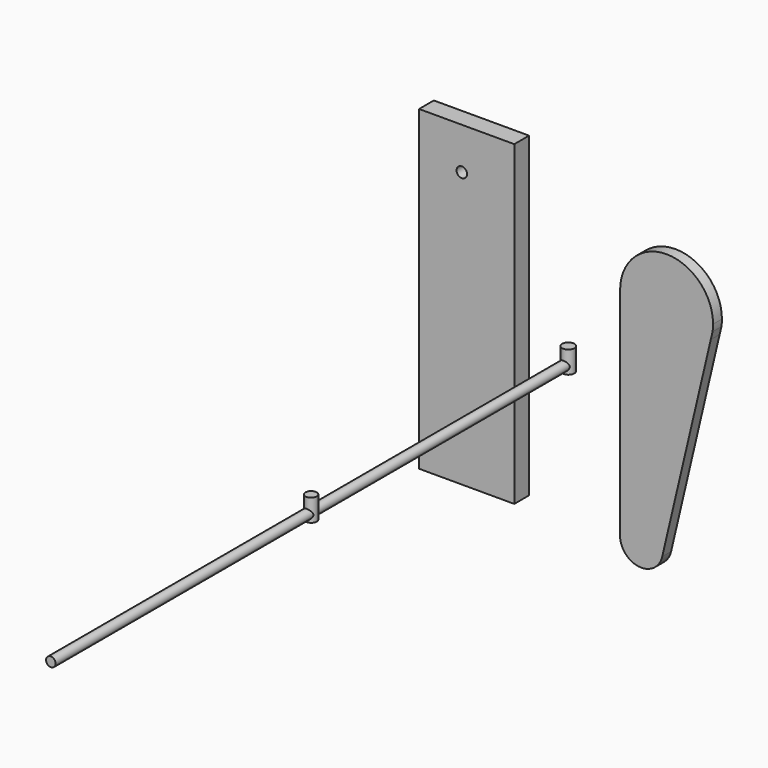
from build123d import *

# Parameters (mm, degrees)
F1_DEPTH = 3
F0_R     = 1.294327
F2_DEPTH = 175
F0_W     = 25.767949
F0_H     = 85.717865
F0_R_2   = 1.415963
F3_DEPTH = 5
F4_R     = 1.645773
F4_R_2   = 1.516116
F5_DEPTH = 6


with BuildPart() as f1:
    # F0 (on Front) → F1 (new body)
    with BuildSketch(Plane.XZ):
        with BuildLine():
            ThreePointArc((33.527691, 19.949228), (20.956538, 32.523725), (8.378697, 19.955917))
            ThreePointArc((8.378697, 19.955917), (18.980465, 7.530438), (32.910786, 16.058987))
            Line((32.910786, 16.058987), (33.393006, 18.113727))
            ThreePointArc((33.393006, 18.113727), (33.493975, 19.02901), (33.527691, 19.949228))
        make_face()
        with BuildLine():
            ThreePointArc((8.347651, -38.407498), (14.22957, -32.804785), (19.926856, -38.595147))
            ThreePointArc((19.926856, -38.595147), (19.888433, -39.26114), (19.773675, -39.918296))
            Line((19.773675, -39.918296), (32.910786, 16.058987))
            ThreePointArc((32.910786, 16.058987), (18.980465, 7.530438), (8.378697, 19.955917))
            Line((8.378697, 19.955917), (8.347651, -38.407498))
        make_face()
        with BuildLine():
            ThreePointArc((19.773675, -39.918296), (19.888433, -39.26114), (19.926856, -38.595147))
            ThreePointArc((19.926856, -38.595147), (14.22957, -32.804785), (8.347651, -38.407498))
            ThreePointArc((8.347651, -38.407498), (13.376613, -44.336301), (19.773675, -39.918296))
        make_face()
    extrude(amount=F1_DEPTH)


with BuildPart() as f2:
    # F0 (on Front) → F2 (new body)
    with BuildSketch(Plane.XZ):
        with Locations((-8.087484, -4.125377)):
            Circle(F0_R)
    extrude(amount=F2_DEPTH)

    # F4 (on Top) → F5 (join)
    with BuildSketch(Plane.XY):
        with Locations((-8.051719, 0)):
            Circle(F4_R)
        with Locations((-8.068082, -86.976007)):
            Circle(F4_R_2)
    extrude(amount=-F5_DEPTH)


with BuildPart() as f3:
    # F0 (on Front) → F3 (new body)
    with BuildSketch(Plane.XZ):
        with Locations((-31.552588, 3.812603)):
            Rectangle(F0_W, F0_H)
        with Locations((-32.867279, 35.365194)):
            Circle(F0_R_2, mode=Mode.SUBTRACT)
    extrude(amount=F3_DEPTH)


solid = Compound([f1.part, f2.part, f3.part])
